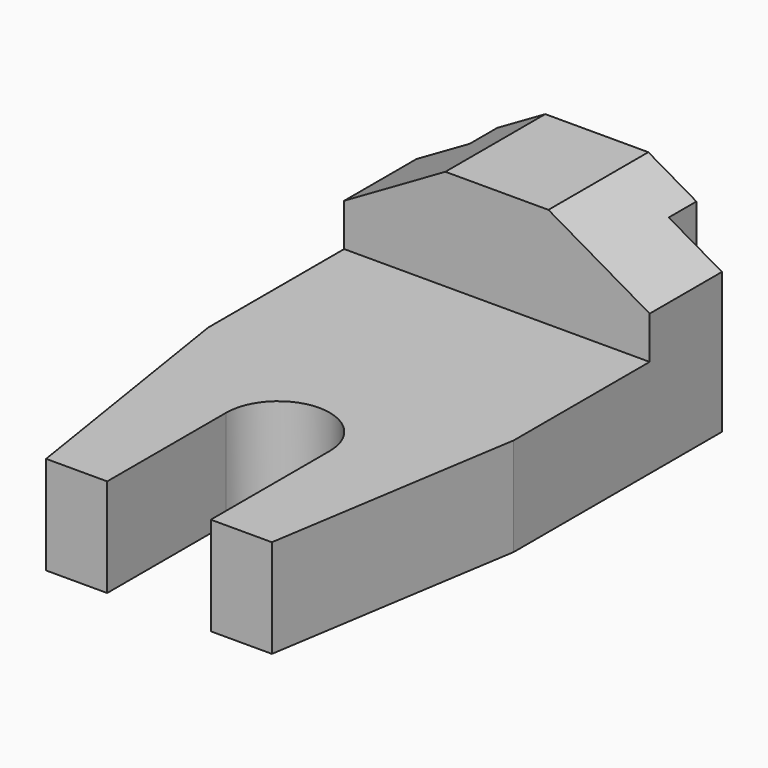
from build123d import *

# Parameters (mm, degrees)
F1_DEPTH = 38.1
F2_W     = 135.403224
F2_H     = 41.598107
F3_DEPTH = 50.8
F5_DEPTH = 101.6


with BuildPart() as f1:
    # F0 (on Top) → F1 (new body)
    with BuildSketch(Plane.XY):
        with BuildLine():
            Line((16.529732, 26.053323), (16.529732, 32.657323))
            Line((16.529732, 32.657323), (-21.570268, 32.657323))
            Line((-21.570268, 32.657323), (-21.570268, 26.053323))
            Line((-21.570268, 26.053323), (-31.730268, 26.053323))
            Line((-31.730268, 26.053323), (-31.730268, -23.730677))
            Line((-31.730268, -23.730677), (-24.110268, -71.990677))
            Line((-24.110268, -71.990677), (-12.426268, -71.990677))
            Line((-12.426268, -71.990677), (-12.426268, -43.542677))
            ThreePointArc((-12.426268, -43.542677), (-2.520268, -33.636677), (7.385732, -43.542677))
            Line((7.385732, -43.542677), (7.385732, -71.990677))
            Line((7.385732, -71.990677), (19.069732, -71.990677))
            Line((19.069732, -71.990677), (26.689732, -23.730677))
            Line((26.689732, -23.730677), (26.689732, 26.053323))
            Line((26.689732, 26.053323), (16.529732, 26.053323))
        make_face()
    extrude(amount=F1_DEPTH)

    # F2 (on Right) → F3 (cut, symmetric)
    with BuildSketch(Plane.YZ):
        with Locations((-58.920289, 39.595053)):
            Rectangle(F2_W, F2_H)
    extrude(amount=F3_DEPTH, both=True, mode=Mode.SUBTRACT)

    # F4 (on Front) → F5 (cut)
    with BuildSketch(Plane.XZ):
        Polygon((26.689732, 26.924), (26.689732, 38.1), (7.332333, 38.1), align=None)
        Polygon((-31.730268, 26.924), (-12.372868, 38.1), (-31.730268, 38.1), align=None)
    extrude(amount=-F5_DEPTH, mode=Mode.SUBTRACT)


solid = f1.part
